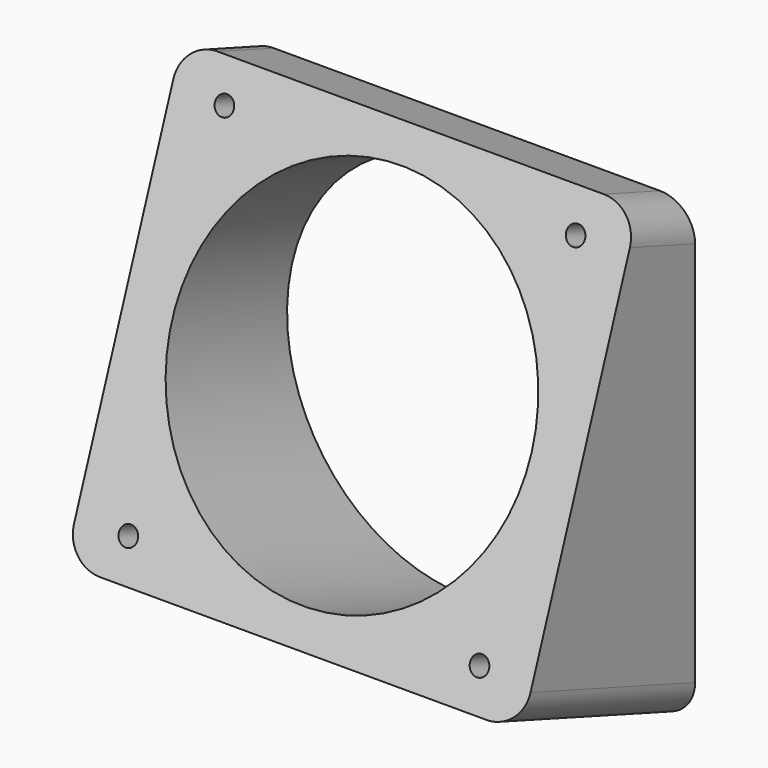
from build123d import *

# Parameters (mm, degrees)
F1_R      = 1.35
F7_DEPTH  = 10
F6_R      = 1.35
F8_DEPTH  = 10
F9_R      = 25.5937233364
F10_DEPTH = 32.8702228284


with BuildPart() as f5:
    # F0 (on Front) → F5 section 0
    with BuildSketch(Plane.XZ):
        with BuildLine():
            ThreePointArc((32.5, 27.5), (31.0355339059, 31.0355339059), (27.5, 32.5))
            Line((27.5, 32.5), (-27.5, 32.5))
            ThreePointArc((-27.5, 32.5), (-31.0355339059, 31.0355339059), (-32.5, 27.5))
            Line((-32.5, 27.5), (-32.5, -27.5))
            ThreePointArc((-32.5, -27.5), (-31.0355339059, -31.0355339059), (-27.5, -32.5))
            Line((-27.5, -32.5), (27.5, -32.5))
            ThreePointArc((27.5, -32.5), (31.0355339059, -31.0355339059), (32.5, -27.5))
            Line((32.5, -27.5), (32.5, 27.5))
        make_face()
    # F4 (on line) → F5 section 1
    with BuildSketch(Plane(origin=(0, -20.4416673649, 7.4401584596), x_dir=(-1, 0, 0), z_dir=(0, 0.9396926208, -0.3420201433))):
        with BuildLine():
            Line((27.5, 30.5400101755), (-27.5, 30.5400101755))
            add(Edge.make_bspline(
                [(-27.5, 30.5400101755), (-32.5, 30.5400101755), (-32.5, 25.8415470716)],
                knots=[4.7123889804, 4.7123889804, 4.7123889804, 6.2831853072, 6.2831853072, 6.2831853072], degree=2, weights=[1, 0.7071067812, 1]))
            Line((-32.5, 25.8415470716), (-32.5, -25.8415470716))
            add(Edge.make_bspline(
                [(-32.5, -25.8415470716), (-32.5, -30.5400101755), (-27.5, -30.5400101755)],
                knots=[0, 0, 0, 1.5707963268, 1.5707963268, 1.5707963268], degree=2, weights=[1, 0.7071067812, 1]))
            Line((-27.5, -30.5400101755), (27.5, -30.5400101755))
            add(Edge.make_bspline(
                [(27.5, -30.5400101755), (32.5, -30.5400101755), (32.5, -25.8415470716)],
                knots=[1.5707963268, 1.5707963268, 1.5707963268, 3.1415926536, 3.1415926536, 3.1415926536], degree=2, weights=[1, 0.7071067812, 1]))
            Line((32.5, -25.8415470716), (32.5, 25.8415470716))
            add(Edge.make_bspline(
                [(32.5, 25.8415470716), (32.5, 30.5400101755), (27.5, 30.5400101755)],
                knots=[3.1415926536, 3.1415926536, 3.1415926536, 4.7123889804, 4.7123889804, 4.7123889804], degree=2, weights=[1, 0.7071067812, 1]))
        make_face()
    loft()

    # F1 (on Front) → F7 (cut)
    with BuildSketch(Plane.XZ):
        with Locations((-25, 25)):
            Circle(F1_R)
        with Locations((25, 25)):
            Circle(F1_R)
        with Locations((-25, -25)):
            Circle(F1_R)
        with Locations((25, -25)):
            Circle(F1_R)
    extrude(amount=F7_DEPTH, mode=Mode.SUBTRACT)

    # F6 (on line) → F8 (cut)
    with BuildSketch(Plane(origin=(0, -20.4416673649, 7.4401584596), x_dir=(-1, 0, 0), z_dir=(0, 0.9396926208, -0.3420201433))):
        with Locations((-25, 25)):
            Circle(F6_R)
        with Locations((25, 25)):
            Circle(F6_R)
        with Locations((-25, -25)):
            Circle(F6_R)
        with Locations((25, -25)):
            Circle(F6_R)
    extrude(amount=F8_DEPTH, mode=Mode.SUBTRACT)

    # F9 (on face) → F10 (cut, through all)
    with BuildSketch(Plane(origin=(0, -20.4416673649, 7.4401584596), x_dir=(1, 0, 0), z_dir=(0, -0.9396926208, 0.3420201433))):
        Circle(F9_R)
    extrude(amount=-F10_DEPTH, mode=Mode.SUBTRACT)


solid = f5.part
